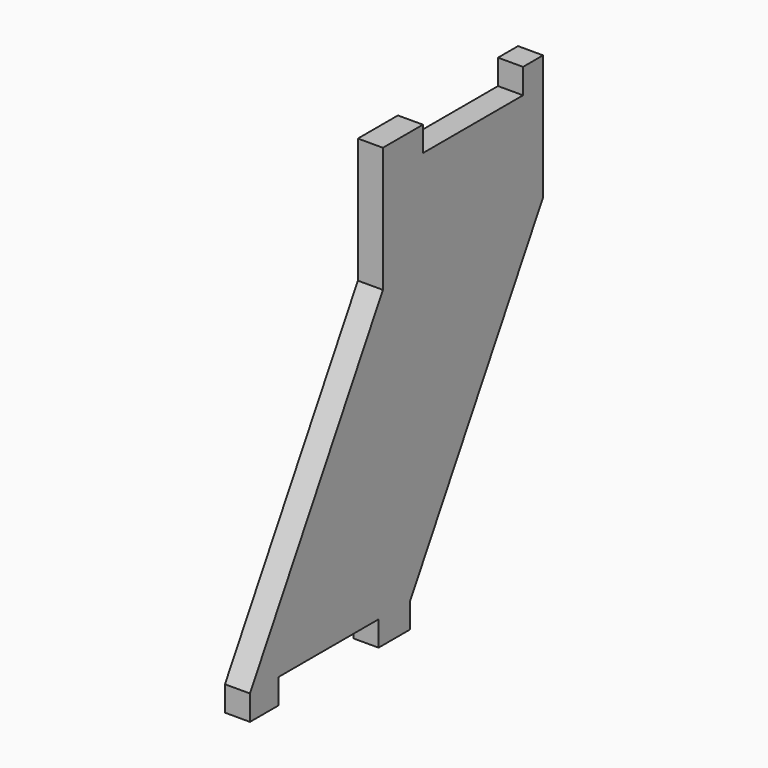
from build123d import *

# Parameters (mm, degrees)
F1_DEPTH = 20


with BuildPart() as f1:
    # F0 (on Right) → F1 (new body)
    with BuildSketch(Plane.YZ):
        Polygon((-132.7905619136, 20), (-132.7905619136, 0), (-104.3375672974, 0), (-104.3375672974, 20), (-4.3375672974, 20), (-4.3375672974, 0), (15.6624327026, 0), (27.2094380864, 20), (160, 250), (0, 250), align=None)
        Polygon((27.2094380864, 20), (15.6624327026, 0), (27.2094380864, 0), align=None)
        Polygon((0, 350), (0, 250), (160, 250), (160, 350), (140, 350), (140, 330), (40, 330), (40, 350), align=None)
    extrude(amount=F1_DEPTH)


solid = f1.part
